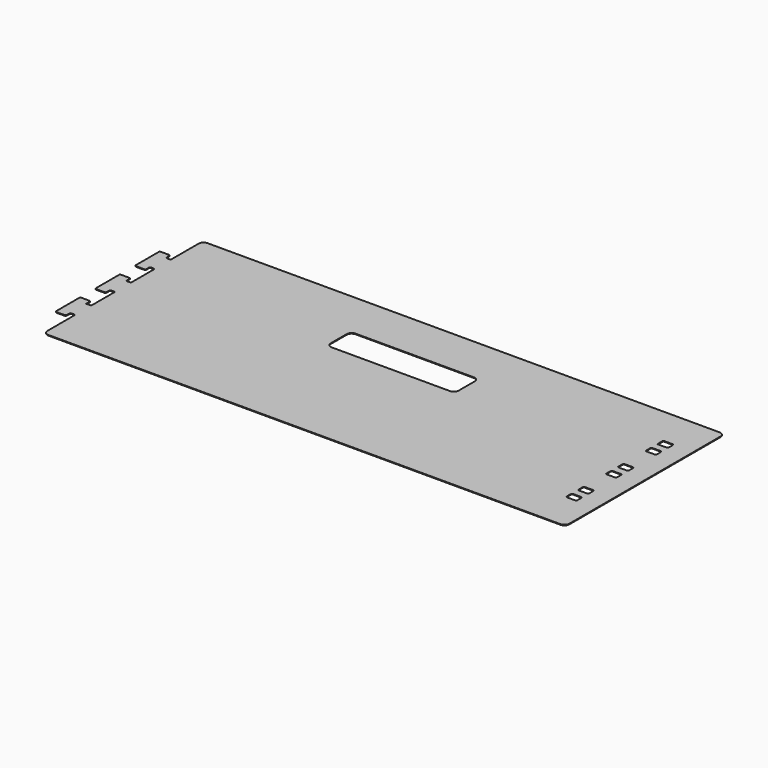
from build123d import *

# Parameters (mm, degrees)
F0_W     = 26.9875
F0_H     = 19.05
F0_W_2   = 327.025
F0_H_2   = 76.2
F0_W_3   = 12.7
F0_H_3   = 50.8
F1_DEPTH = 1.651
F2_R     = 12.7
F3_R     = 3.175
F4_R     = 12.7


with BuildPart() as f1:
    # F0 (on Top) → F1 (new body)
    with BuildSketch(Plane.XY):
        Polygon((-651.0655, -152.4), (-651.0655, -101.6), (-651.0655, -87.3125), (-678.053, -87.3125), (-678.053, -166.6875), (-651.0655, -166.6875), align=None)
        Polygon((638.3655, 254), (-638.3655, 254), (-638.3655, 152.4), (-638.3655, 101.6), (-638.3655, 25.4), (-638.3655, -25.4), (-638.3655, -101.6), (-638.3655, -152.4), (-638.3655, -254), (638.3655, -254), (695.1345, -254), (695.1345, 254), align=None)
        with Locations((630.84075, -146.05)):
            Rectangle(F0_W, F0_H, mode=Mode.SUBTRACT)
        with Locations((630.84075, -107.95)):
            Rectangle(F0_W, F0_H, mode=Mode.SUBTRACT)
        with Locations((630.84075, -19.05)):
            Rectangle(F0_W, F0_H, mode=Mode.SUBTRACT)
        with Locations((0, 95.25)):
            Rectangle(F0_W_2, F0_H_2, mode=Mode.SUBTRACT)
        with Locations((630.84075, 19.05)):
            Rectangle(F0_W, F0_H, mode=Mode.SUBTRACT)
        with Locations((630.84075, 107.95)):
            Rectangle(F0_W, F0_H, mode=Mode.SUBTRACT)
        with Locations((630.84075, 146.05)):
            Rectangle(F0_W, F0_H, mode=Mode.SUBTRACT)
        with Locations((-644.7155, -127)):
            Rectangle(F0_W_3, F0_H_3)
        Polygon((-651.0655, 101.6), (-651.0655, 152.4), (-651.0655, 166.6875), (-678.053, 166.6875), (-678.053, 87.3125), (-651.0655, 87.3125), align=None)
        with Locations((-644.7155, 0)):
            Rectangle(F0_W_3, F0_H_3)
        Polygon((-651.0655, -25.4), (-651.0655, 25.4), (-651.0655, 39.6875), (-678.053, 39.6875), (-678.053, -39.6875), (-651.0655, -39.6875), align=None)
        with Locations((-644.7155, 127)):
            Rectangle(F0_W_3, F0_H_3)
    extrude(amount=F1_DEPTH)

    # F2
    f2_edges = [f1.edges().sort_by_distance(p)[0] for p in [
        (-163.5125, 133.35, 0.8255),
        (163.5125, 133.35, 0.8255),
        (-163.5125, 57.15, 0.8255),
        (163.5125, 57.15, 0.8255),
    ]]
    fillet(f2_edges, radius=F2_R)

    # F3
    f3_edges = [f1.edges().sort_by_distance(p)[0] for p in [
        (-678.053, 166.6875, 0.8255),
        (-651.0655, 166.6875, 0.8255),
        (-638.3655, 152.4, 0.8255),
        (-651.0655, 152.4, 0.8255),
        (-651.0655, 87.3125, 0.8255),
        (-651.0655, 101.6, 0.8255),
        (-678.053, 87.3125, 0.8255),
        (-638.3655, 101.6, 0.8255),
        (-638.3655, -25.4, 0.8255),
        (-638.3655, 25.4, 0.8255),
        (-651.0655, 39.6875, 0.8255),
        (-651.0655, 25.4, 0.8255),
        (-678.053, 39.6875, 0.8255),
        (-678.053, -39.6875, 0.8255),
        (-651.0655, -39.6875, 0.8255),
        (-651.0655, -25.4, 0.8255),
        (-638.3655, -101.6, 0.8255),
        (-651.0655, -87.3125, 0.8255),
        (-678.053, -87.3125, 0.8255),
        (-678.053, -166.6875, 0.8255),
        (-651.0655, -166.6875, 0.8255),
        (-638.3655, -152.4, 0.8255),
        (-651.0655, -152.4, 0.8255),
        (617.347, 155.575, 0.8255),
        (617.347, 117.475, 0.8255),
        (617.347, 28.575, 0.8255),
        (617.347, -136.525, 0.8255),
        (617.347, -98.425, 0.8255),
        (617.347, -9.525, 0.8255),
        (617.347, 9.525, 0.8255),
        (617.347, -28.575, 0.8255),
        (617.347, -117.475, 0.8255),
        (617.347, -155.575, 0.8255),
        (644.3345, -155.575, 0.8255),
        (644.3345, -136.525, 0.8255),
        (644.3345, -98.425, 0.8255),
        (644.3345, 155.575, 0.8255),
        (644.3345, 117.475, 0.8255),
        (644.3345, 98.425, 0.8255),
        (644.3345, 9.525, 0.8255),
        (644.3345, 136.525, 0.8255),
        (644.3345, -28.575, 0.8255),
        (644.3345, 28.575, 0.8255),
        (644.3345, -117.475, 0.8255),
    ]]
    fillet(f3_edges, radius=F3_R)

    # F4
    f4_edges = [f1.edges().sort_by_distance(p)[0] for p in [
        (695.1345, 254, 0.8255),
        (695.1345, -254, 0.8255),
        (-638.3655, -254, 0.8255),
        (-638.3655, 254, 0.8255),
    ]]
    fillet(f4_edges, radius=F4_R)


solid = f1.part
